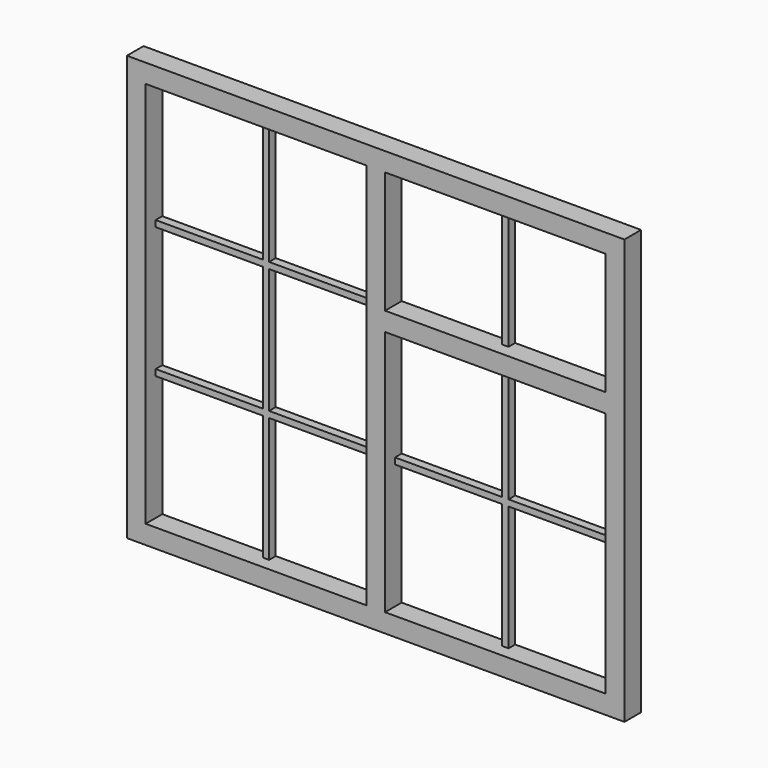
from build123d import *

# Parameters (mm, degrees)
F0_W     = 1195
F0_H     = 1020
F0_W_2   = 530
F0_H_2   = 592.5
F0_H_3   = 930
F0_H_4   = 292.5
F1_DEPTH = 50
F2_W     = 15
F2_H     = 292.5
F3_DEPTH = 20


with BuildPart() as f1:
    # F0 (on Front) → F1 (new body)
    with BuildSketch(Plane.XZ):
        with Locations((597.5, 510)):
            Rectangle(F0_W, F0_H)
        with Locations((885, 341.25)):
            Rectangle(F0_W_2, F0_H_2, mode=Mode.SUBTRACT)
        with Locations((310, 510)):
            Rectangle(F0_W_2, F0_H_3, mode=Mode.SUBTRACT)
        with Locations((885, 828.75)):
            Rectangle(F0_W_2, F0_H_4, mode=Mode.SUBTRACT)
    extrude(amount=F1_DEPTH)

    # F2 (on Front) → F3 (join)
    with BuildSketch(Plane.XZ):
        Polygon((317.5, 975), (302.5, 975), (302.5, 675), (45, 675), (45, 660), (302.5, 660), (302.5, 360), (45, 360), (45, 345), (302.5, 345), (302.5, 45), (317.5, 45), (317.5, 345), (575, 345), (575, 360), (317.5, 360), (317.5, 660), (575, 660), (575, 675), (317.5, 675), align=None)
        Polygon((877.5, 360), (620, 360), (620, 345), (877.5, 345), (877.5, 45), (892.5, 45), (892.5, 345), (1150, 345), (1150, 360), (892.5, 360), (892.5, 637.5), (877.5, 637.5), align=None)
        with Locations((885, 828.75)):
            Rectangle(F2_W, F2_H)
    extrude(amount=F3_DEPTH)


solid = f1.part
